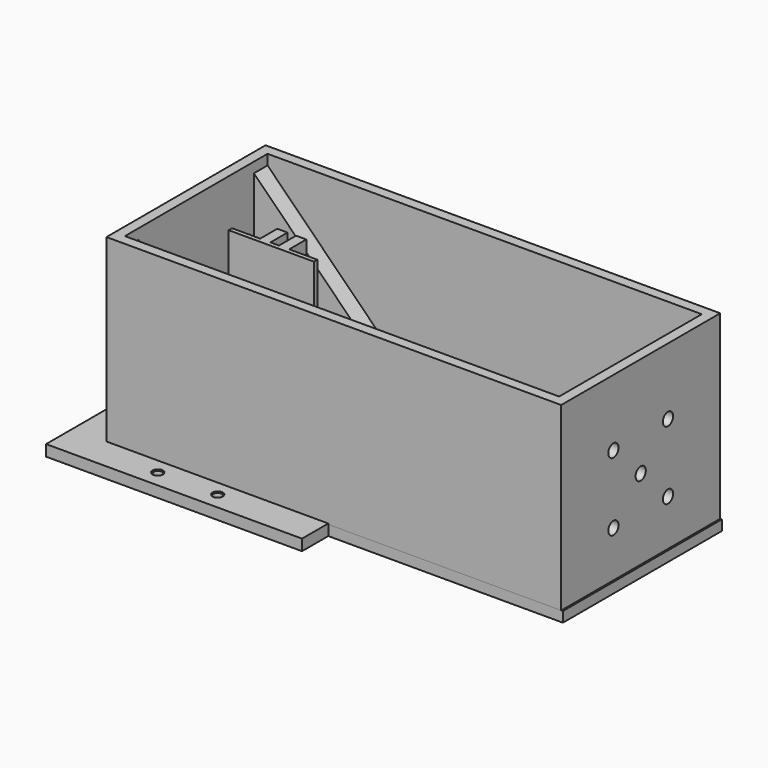
from build123d import *

# Parameters (mm, degrees)
SKETCH_W             = 106.6
SKETCH_H             = 46.6
PAD_DEPTH            = 2.4
SKETCH001_W          = 106.6
SKETCH001_H          = 46.6
SKETCH001_W_2        = 101.8
SKETCH001_H_2        = 41.8
PAD001_DEPTH         = 44.8
PAD002_DEPTH         = 4
SKETCH003_R          = 1.5
POCKET_DEPTH         = 86.601
PAD003_DEPTH         = 40
SKETCH005_R          = 1
SKETCH005_W          = 28
SKETCH005_H          = 30
PAD005_DEPTH         = 2.4
PAD006_DEPTH         = 4.8
SKETCH007_W          = 60
SKETCH007_H          = 62
SKETCH007_R          = 1.25
SKETCH007_W_2        = 28
SKETCH007_H_2        = 30
PAD007_DEPTH         = 1.2
PAD008_DEPTH         = 2.6
SKETCH009_R          = 1.25
POCKET001_DEPTH      = 0.001
POCKET001_DEPTH_BACK = 2.601


with BuildPart() as box:
    # Sketch → Pad (new body)
    with BuildSketch(Plane.XY):
        with Locations((33.3, 0)):
            Rectangle(SKETCH_W, SKETCH_H)
    extrude(amount=PAD_DEPTH)

    # Sketch001 → Pad001 (join)
    with BuildSketch(Plane.XY):
        with Locations((33.3, 0)):
            Rectangle(SKETCH001_W, SKETCH001_H)
        with Locations((33.3, 0)):
            Rectangle(SKETCH001_W_2, SKETCH001_H_2, mode=Mode.SUBTRACT)
    extrude(amount=PAD001_DEPTH)

    # Sketch002 → Pad002 (join)
    with BuildSketch(Plane.XZ.offset(20.9)):
        Polygon((-17.6, 42.4), (22.4, 2.4), (-17.6, 2.4), align=None)
    pad002 = extrude(amount=-PAD002_DEPTH)

    # Mirrored: Pad002 across XZ
    add(pad002.mirror(Plane.XZ))

    # Sketch003 → Pocket (cut, through all)
    with BuildSketch(Plane.YZ):
        with Locations((0, 21.2)):
            Circle(SKETCH003_R)
        with Locations((-8, 13.2)):
            Circle(SKETCH003_R)
        with Locations((8, 29.2)):
            Circle(SKETCH003_R)
        with Locations((-8, 29.2)):
            Circle(SKETCH003_R)
        with Locations((8, 13.2)):
            Circle(SKETCH003_R)
    extrude(amount=POCKET_DEPTH, mode=Mode.SUBTRACT)


with BuildPart() as paper_holder:
    # Sketch004 → Pad003 (new body)
    with BuildSketch(Plane.XY):
        Polygon((-10, 0), (10, 0), (10, 1), (3.4, 1), (3.4, 6), (1, 6), (1, 1), (-1, 1), (-1, 6), (-3.4, 6), (-3.4, 1), (-10, 1), align=None)
    extrude(amount=PAD003_DEPTH)


with BuildPart() as lid:
    # Sketch005 → Pad005 (new body)
    with BuildSketch(Plane.XY):
        Polygon((87, -23.3), (87, 23.3), (32, 23.3), (32, 31), (-28, 31), (-28, -31), (32, -31), (32, -23.3), align=None)
        with Locations((-5, 27)):
            Circle(SKETCH005_R, mode=Mode.SUBTRACT)
        with Locations((9, 27)):
            Circle(SKETCH005_R, mode=Mode.SUBTRACT)
        with Locations((-5, -27)):
            Circle(SKETCH005_R, mode=Mode.SUBTRACT)
        with Locations((9, -27)):
            Circle(SKETCH005_R, mode=Mode.SUBTRACT)
        with Locations((-24, 7)):
            Circle(SKETCH005_R, mode=Mode.SUBTRACT)
        with Locations((-24, -7)):
            Circle(SKETCH005_R, mode=Mode.SUBTRACT)
        with Locations((2, 0)):
            Rectangle(SKETCH005_W, SKETCH005_H, mode=Mode.SUBTRACT)
    extrude(amount=PAD005_DEPTH)

    # Sketch006 → Pad006 (join)
    with BuildSketch(Plane.XY):
        Polygon((-7.6, 20.9), (-17.6, 20.9), (-17.6, 10.9), (-15.2, 10.9), (-15.2, 18.5), (-7.6, 18.5), align=None)
        Polygon((74.2, 20.9), (84.2, 20.9), (84.2, 10.9), (81.8, 10.9), (81.8, 18.5), (74.2, 18.5), align=None)
        Polygon((84.2, -10.9), (84.2, -20.9), (74.2, -20.9), (74.2, -18.5), (81.8, -18.5), (81.8, -10.9), align=None)
        Polygon((-17.6, -10.9), (-17.6, -20.9), (-7.6, -20.9), (-7.6, -18.5), (-15.2, -18.5), (-15.2, -10.9), align=None)
    extrude(amount=PAD006_DEPTH)


with BuildPart() as lid_top:
    # Sketch007 → Pad007 (new body)
    with BuildSketch(Plane.XY):
        with Locations((2, 0)):
            Rectangle(SKETCH007_W, SKETCH007_H)
        with Locations((-5, 27)):
            Circle(SKETCH007_R, mode=Mode.SUBTRACT)
        with Locations((9, 27)):
            Circle(SKETCH007_R, mode=Mode.SUBTRACT)
        with Locations((-5, -27)):
            Circle(SKETCH007_R, mode=Mode.SUBTRACT)
        with Locations((9, -27)):
            Circle(SKETCH007_R, mode=Mode.SUBTRACT)
        with Locations((-24, 7)):
            Circle(SKETCH007_R, mode=Mode.SUBTRACT)
        with Locations((-24, -7)):
            Circle(SKETCH007_R, mode=Mode.SUBTRACT)
        with Locations((2, 0)):
            Rectangle(SKETCH007_W_2, SKETCH007_H_2, mode=Mode.SUBTRACT)
    extrude(amount=PAD007_DEPTH)

    # Sketch008 → Pad008 (join)
    with BuildSketch(Plane.XY):
        Polygon((-28, 31), (-28, -31), (32, -31), (32, -21.1), (-18, -21.1), (-18, 21.1), (32, 21.1), (32, 31), align=None)
    extrude(amount=PAD008_DEPTH)

    # Sketch009 → Pocket001 (cut, two sides)
    with BuildSketch(Plane.XY) as pocket001_sk:
        with Locations((-5, 27)):
            Circle(SKETCH009_R)
        with Locations((9, 27)):
            Circle(SKETCH009_R)
        with Locations((-5, -27)):
            Circle(SKETCH009_R)
        with Locations((9, -27)):
            Circle(SKETCH009_R)
        with Locations((-24, 7)):
            Circle(SKETCH009_R)
        with Locations((-24, -7)):
            Circle(SKETCH009_R)
    extrude(amount=-POCKET001_DEPTH, mode=Mode.SUBTRACT)
    extrude(pocket001_sk.sketch, amount=POCKET001_DEPTH_BACK, mode=Mode.SUBTRACT)


solid = Compound([box.part, paper_holder.part, lid.part, lid_top.part])
